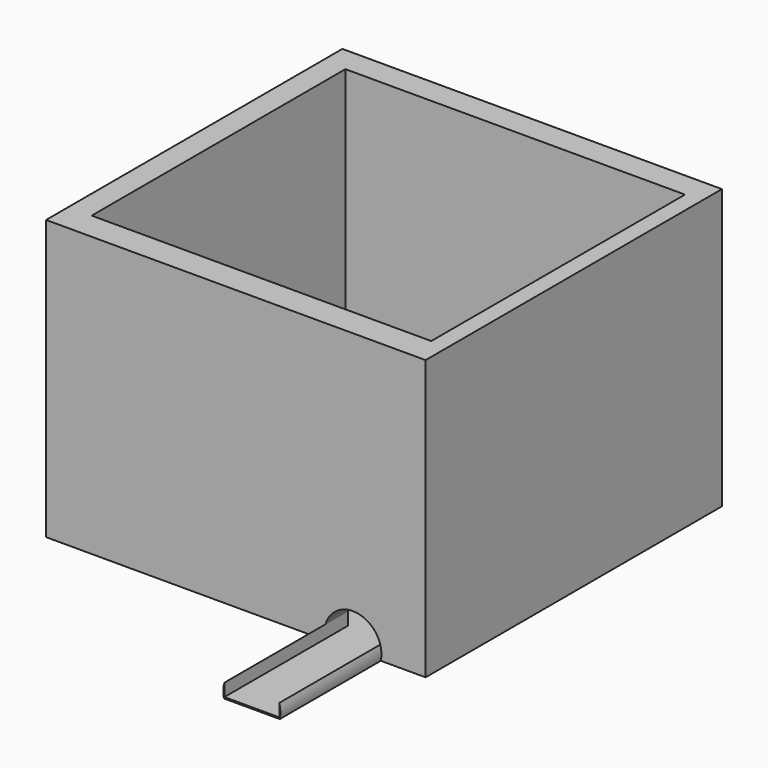
from build123d import *

# Parameters (mm, degrees)
F0_W      = 179.383456707
F0_H      = 175.0688403845
F0_W_2    = 160.5059653521
F0_H_2    = 146.9108834863
F1_DEPTH  = 132
F3_DEPTH  = 25
F5_DEPTH  = 10
F6_DEPTH  = 10
F7_W      = 160.5059653521
F7_H      = 6.6701923497
F8_DEPTH  = 163
F9_DEPTH  = 6
F10_DEPTH = 3
F11_DEPTH = 59.8


with BuildPart() as f1:
    # F0 (on Top) → F1 (new body)
    with BuildSketch(Plane.XY):
        with Locations((10.4796737432, 16.923636198)):
            Rectangle(F0_W, F0_H)
        with Locations((12.0261907578, 19.04932037)):
            Rectangle(F0_W_2, F0_H_2, mode=Mode.SUBTRACT)
    extrude(amount=F1_DEPTH)

    # F2 (on face) → F3 (cut)
    with BuildSketch(Plane.XZ.offset(70.6107839942)):
        with BuildLine():
            Line((52.587673068, 0), (78.987672925, 0))
            ThreePointArc((78.987672925, 0), (65.7876729965, 16.3912356025), (52.587673068, 0))
        make_face()
    extrude(amount=-F3_DEPTH, mode=Mode.SUBTRACT)

    # F4 (on face) → F5 (join)
    with BuildSketch(Plane(origin=(0, 0, 0), x_dir=(1, 0, 0), z_dir=(0, 0, -1))):
        Polygon((52.587673068, 54.4061213732), (-68.2267919183, 54.4061213732), (-68.2267919183, -92.5047621131), (92.2791734338, -92.5047621131), (92.2791734338, 54.4061213732), (78.987672925, 54.4061213732), align=None)
    extrude(amount=-F5_DEPTH)

    # F6 (cut): a face of the model
    f6_faces = [f1.faces().sort_by_distance(p)[0] for p in [
        (12.0261907578, 19.04932037, 10),
    ]]
    extrude(f6_faces, amount=-F6_DEPTH, mode=Mode.SUBTRACT)

    # F7 (on face) → F8 (join)
    with BuildSketch(Plane.XZ.offset(-92.5047621131)):
        with Locations((12.0261907578, 3.3350961749)):
            Rectangle(F7_W, F7_H)
    extrude(amount=F8_DEPTH)

    # F9 (cut): a face of the model
    f9_faces = [f1.faces().sort_by_distance(p)[0] for p in [
        (12.9610636672, 17.6320948964, 6.6701923497),
    ]]
    extrude(f9_faces, amount=-F9_DEPTH, mode=Mode.SUBTRACT)

    # F10 (cut): a face of the model
    f10_faces = [f1.faces().sort_by_distance(p)[0] for p in [
        (11.1413753664, -54.4061213732, 67.3034038031),
    ]]
    extrude(f10_faces, amount=-F10_DEPTH, mode=Mode.SUBTRACT)

    # F11 (add): a face of the model
    f11_faces = [f1.faces().sort_by_distance(p)[0] for p in [
        (52.5633202811, -70.4952378869, 3.3399666354),
    ]]
    extrude(f11_faces, amount=F11_DEPTH)


solid = f1.part
